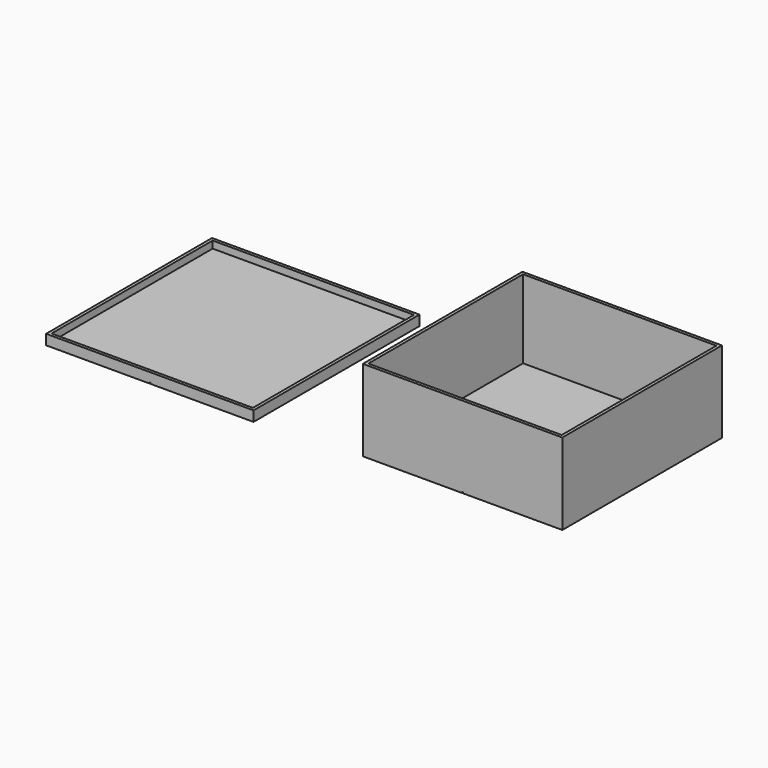
from build123d import *

# Parameters (mm, degrees)
F0_W     = 98
F0_H     = 98
F0_W_2   = 95
F0_H_2   = 95
F2_DEPTH = 40
F3_DEPTH = 1.5
F1_W     = 49.25
F1_H     = 98.9
F1_W_2   = 0.5
F1_W_3   = 49.15
F4_DEPTH = 1.5
F1_H_2   = 1.5
F5_DEPTH = 5
F6_W     = 0.5
F6_H     = 98
F7_DEPTH = 0.5
F8_DEPTH = 0.5


with BuildPart() as f2:
    # F0 (on Top) → F2 (new body)
    with BuildSketch(Plane.XY):
        Rectangle(F0_W, F0_H)
        Rectangle(F0_W_2, F0_H_2, mode=Mode.SUBTRACT)
    extrude(amount=F2_DEPTH)

    # F0 (on Top) → F3 (join)
    with BuildSketch(Plane.XY):
        Rectangle(F0_W_2, F0_H_2)
    extrude(amount=F3_DEPTH)

    # F6 (on face) → F7 (cut)
    with BuildSketch(Plane(origin=(0, 0, 0), x_dir=(1, 0, 0), z_dir=(0, 0, -1))):
        Rectangle(F6_W, F6_H)
    extrude(amount=-F7_DEPTH, mode=Mode.SUBTRACT)


with BuildPart() as f4:
    # F1 (on Top) → F4 (new body)
    with BuildSketch(Plane.XY):
        with Locations((-175.375, -1.95)):
            Rectangle(F1_W, F1_H)
        with Locations((-150.5, -1.95)):
            Rectangle(F1_W_2, F1_H)
        with Locations((-125.675, -1.95)):
            Rectangle(F1_W_3, F1_H)
    extrude(amount=F4_DEPTH)

    # F1 (on Top) → F5 (join)
    with BuildSketch(Plane.XY):
        Polygon((-200, -51.4), (-200, 47.5), (-150.75, 47.5), (-150.75, 49), (-201.5, 49), (-201.5, -52.9), (-150.75, -52.9), (-150.75, -51.4), align=None)
        with Locations((-150.5, 48.25)):
            Rectangle(F1_W_2, F1_H_2)
        Polygon((-150.25, 49), (-150.25, 47.5), (-101.1, 47.5), (-101.1, -51.4), (-150.25, -51.4), (-150.25, -52.9), (-99.6, -52.9), (-99.6, 49), align=None)
        Polygon((-200, -51.4), (-200, 47.5), (-150.75, 47.5), (-150.75, 49), (-201.5, 49), (-201.5, -52.9), (-150.75, -52.9), (-150.75, -51.4), align=None)
        Polygon((-150.25, 49), (-150.25, 47.5), (-101.1, 47.5), (-101.1, -51.4), (-150.25, -51.4), (-150.25, -52.9), (-99.6, -52.9), (-99.6, 49), align=None)
        with Locations((-150.5, -52.15)):
            Rectangle(F1_W_2, F1_H_2)
    extrude(amount=F5_DEPTH)

    # F1 (on Top) → F8 (cut)
    with BuildSketch(Plane.XY):
        with Locations((-150.5, -1.95)):
            Rectangle(F1_W_2, F1_H)
        with Locations((-150.5, -52.15)):
            Rectangle(F1_W_2, F1_H_2)
        with Locations((-150.5, 48.25)):
            Rectangle(F1_W_2, F1_H_2)
    extrude(amount=F8_DEPTH, mode=Mode.SUBTRACT)


solid = Compound([f2.part, f4.part])
